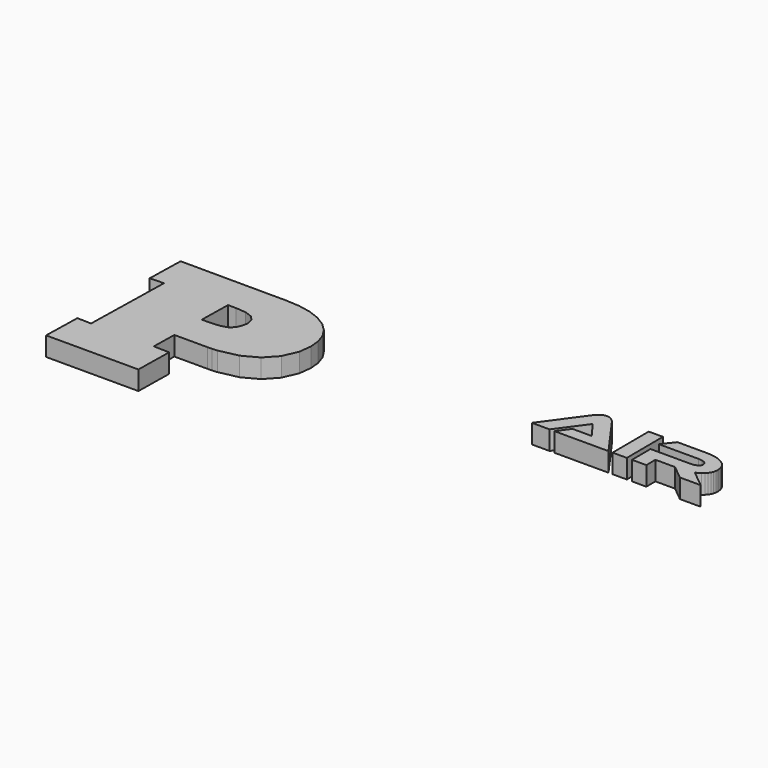
from build123d import *

# Parameters (mm, degrees)
F1_DEPTH = 25


with BuildPart() as f1:
    # F0 (on Top) → F1 (new body)
    with BuildSketch(Plane.XY):
        Polygon((-1007.151407, 4.152373), (-1025.532487, 4.736784), (-1026.668174, -45.205807), (-905.444192, -45.205807), (-904.593988, 4.162568), (-925.174164, 4.746879), (-924.57608, 37.679079), (-880.76416, 37.686391), (-875.322385, 37.836883), (-868.666895, 38.284458), (-843.507275, 43.625111), (-823.722857, 54.255914), (-809.555843, 69.566723), (-801.238482, 88.94377), (-799.22862, 104.982731), (-800.48393, 118.682817), (-804.60563, 130.995015), (-811.589498, 141.923824), (-821.432302, 151.473252), (-833.819435, 159.22263), (-848.438879, 164.751842), (-865.293001, 168.064389), (-884.385467, 169.162481), (-905.64524, 169.153305), (-1021.784968, 169.536265), (-1022.90692, 120.197707), (-1004.597102, 120.783872), align=None)
        Polygon((-900.202569, 82.84746), (-913.84045, 81.874263), (-923.773496, 81.871721), (-923.011008, 123.856481), (-912.195127, 123.860164), (-898.807743, 122.69444), (-889.288447, 119.185991), (-883.636486, 113.332501), (-881.853421, 105.130246), (-882.545937, 99.470344), (-885.692, 91.126976), (-891.198475, 85.758439), align=None, mode=Mode.SUBTRACT)
        Polygon((-475.426065, 129.846204), (-486.699862, 114.337183), (-415.729295, 114.356671), (-453.699945, 167.415701), (-455.923418, 169.933403), (-458.730012, 172.037501), (-462.223687, 173.64603), (-465.672015, 174.181246), (-469.075192, 173.643331), (-472.601707, 172.032083), (-475.500059, 169.884586), (-477.688188, 167.406553), (-516.271662, 114.329062), (-493.066648, 114.335434), (-465.94181, 151.294482), (-450.224641, 129.853911), align=None)
        Polygon((-410.352202, 114.358149), (-391.651032, 114.363284), (-392.021399, 174.049138), (-410.671429, 174.041778), align=None)
        Polygon((-321.945321, 114.382425), (-294.701844, 114.389906), (-316.757065, 132.384585), (-310.512316, 135.71203), (-307.968738, 137.817866), (-305.811038, 140.218224), (-304.09606, 142.840453), (-302.880567, 145.61195), (-302.164399, 148.532593), (-301.947378, 151.602254), (-302.618978, 156.865058), (-304.517845, 161.484258), (-307.643338, 165.460645), (-311.995016, 168.794904), (-316.743166, 171.105919), (-322.152969, 172.755524), (-328.224725, 173.744038), (-334.958846, 174.071658), (-373.00009, 174.056644), (-385.105149, 158.605878), (-333.061497, 158.6248), (-327.895314, 158.192658), (-324.195751, 156.891824), (-321.962695, 154.721981), (-321.196356, 151.682616), (-321.426501, 150.012321), (-322.150612, 148.558833), (-323.368762, 147.322243), (-325.080992, 146.302626), (-328.588142, 145.246365), (-332.939189, 144.893189), (-385.015651, 144.875693), (-384.816774, 114.36516), (-366.031828, 114.370319), (-366.142684, 129.394024), (-340.346745, 129.401887), align=None)
    extrude(amount=F1_DEPTH)


solid = f1.part
